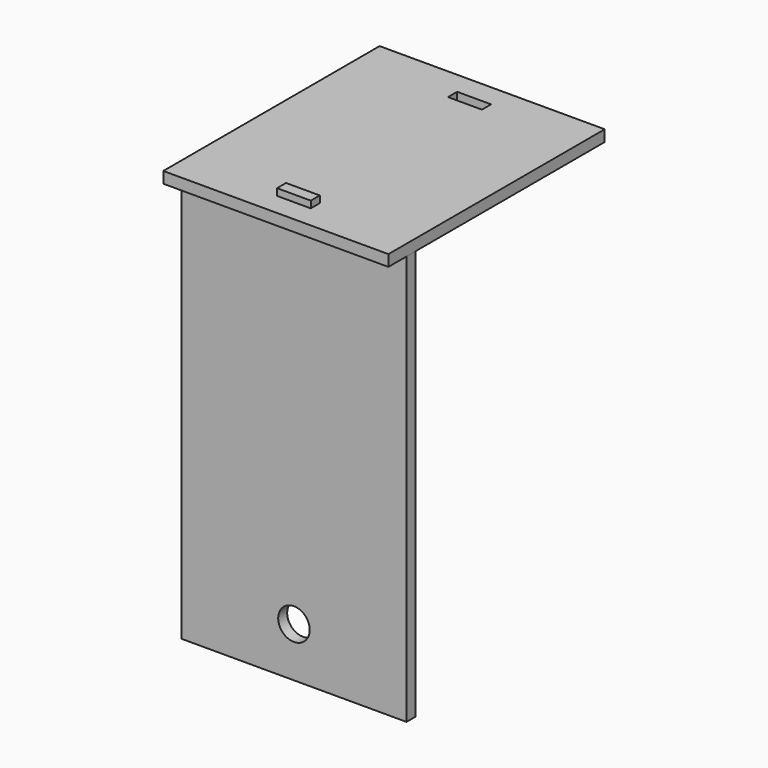
from build123d import *

# Parameters (mm, degrees)
F0_R     = 7
F0_W     = 15
F0_H     = 8
F1_DEPTH = 5
F2_W     = 100
F2_H     = 120.1
F2_W_2   = 15
F2_H_2   = 5.1
F2_W_3   = 15.1
F3_DEPTH = 5


with BuildPart() as f1:
    # F0 (on Front) → F1 (new body)
    with BuildSketch(Plane.XZ):
        Polygon((0, 182), (0, 0), (100, 0), (100, 182), (57.5, 182), (42.5, 182), align=None)
        with Locations((50, 22)):
            Circle(F0_R, mode=Mode.SUBTRACT)
        with Locations((50, 186)):
            Rectangle(F0_W, F0_H)
    extrude(amount=F1_DEPTH)


with BuildPart() as f3:
    # F2 (on face) → F3 (new body)
    with BuildSketch(Plane.XY.offset(182)):
        with Locations((50, 45)):
            Rectangle(F2_W, F2_H)
        with Locations((50, -2.5)):
            Rectangle(F2_W_2, F2_H_2, mode=Mode.SUBTRACT)
        with Locations((50, 92.5)):
            Rectangle(F2_W_3, F2_H_2, mode=Mode.SUBTRACT)
    extrude(amount=F3_DEPTH)


solid = Compound([f1.part, f3.part])
